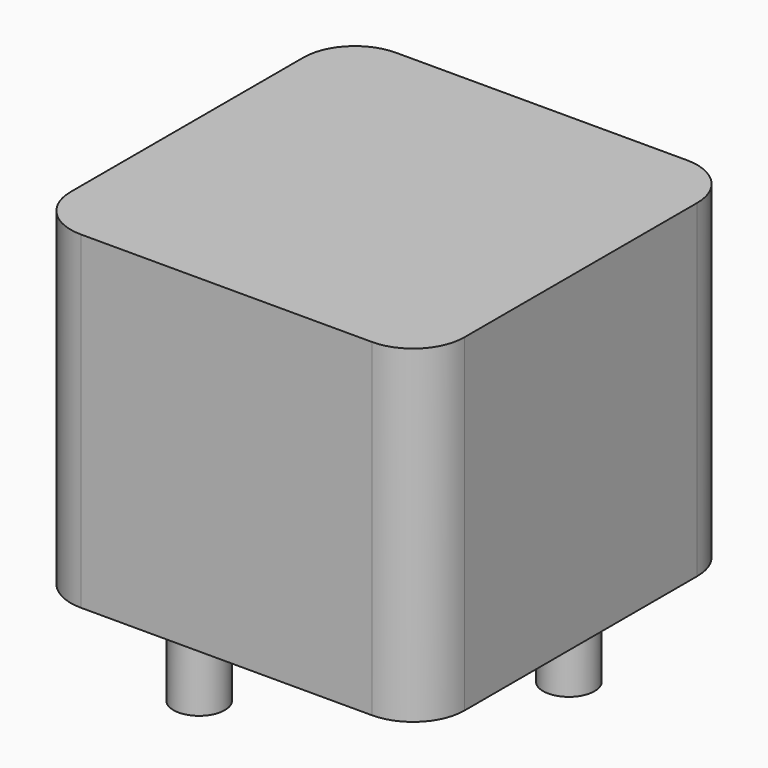
from build123d import *

# Parameters (mm, degrees)
SKETCH_W     = 11.5
SKETCH_H     = 11.5
PAD_DEPTH    = 9.6
FILLET_R     = 1.5
SKETCH001_R  = 0.75
PAD001_DEPTH = 3.5


with BuildPart() as fillet_body:
    # Sketch → Pad (new body)
    with BuildSketch(Plane.XY.offset(0.1)):
        with Locations((3, 3)):
            Rectangle(SKETCH_W, SKETCH_H)
    extrude(amount=PAD_DEPTH)

    # Fillet
    fillet_edges = [fillet_body.edges().sort_by_distance(p)[0] for p in [
        (8.75, -2.75, 4.9),
        (8.75, 8.75, 4.9),
        (-2.75, -2.75, 4.9),
        (-2.75, 8.75, 4.9),
    ]]
    fillet(fillet_edges, radius=FILLET_R)


with BuildPart() as obj1:
    # Sketch001 → Pad001 (new body)
    with BuildSketch(Plane.XY.offset(0.5)):
        Circle(SKETCH001_R)
        with Locations((6, 6)):
            Circle(SKETCH001_R)
    extrude(amount=-PAD001_DEPTH)

    # obj1: union Fillet body
    add(fillet_body.part)


solid = obj1.part
